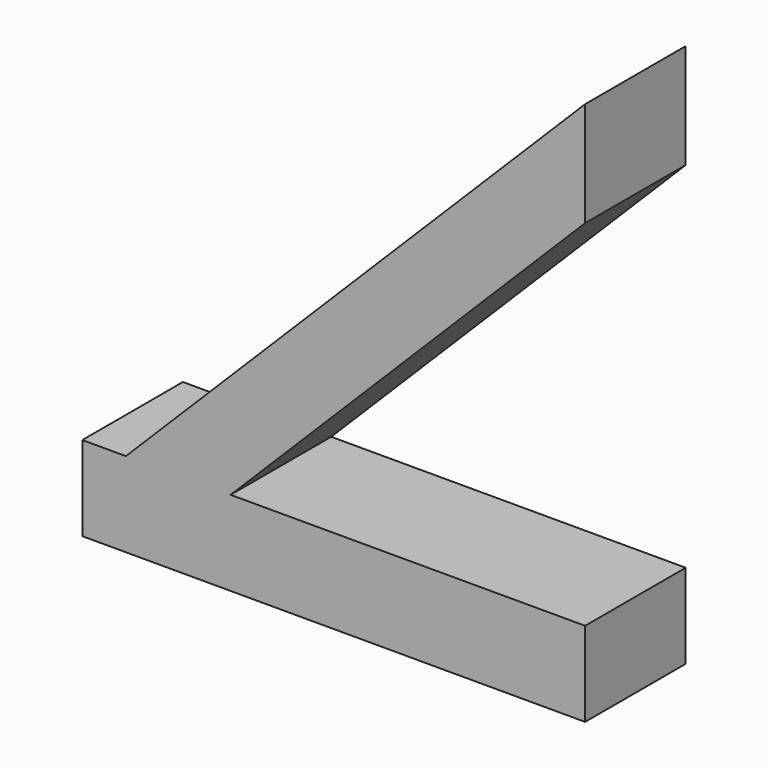
from build123d import *

# Parameters (mm, degrees)
F1_DEPTH = 15


with BuildPart() as f1:
    # F0 (on Front) → F1 (new body)
    with BuildSketch(Plane.XZ):
        Polygon((0, 42.300776), (0, 54.800776), (-54.800776, 0), (-42.300776, 0), align=None)
        Polygon((-42.300776, 0), (-54.800776, 0), (-60, 0), (-60, -10.1), (0, -10.1), (0, 0), align=None)
    extrude(amount=F1_DEPTH)


solid = f1.part
